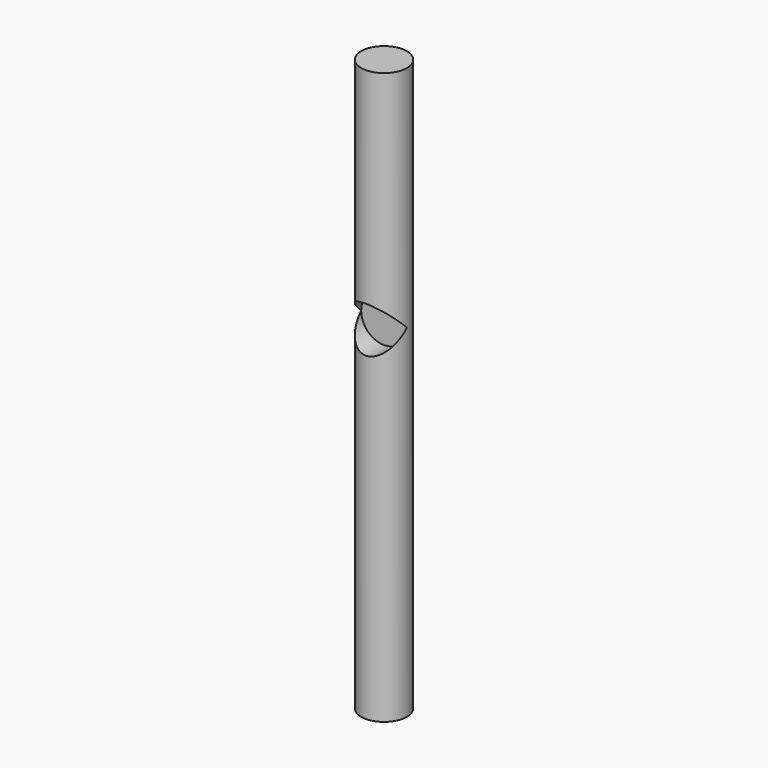
from build123d import *

# Parameters (mm, degrees)
F0_R     = 10
F1_DEPTH = 250
F2_R     = 10
F3_DEPTH = 10


with BuildPart() as f1:
    # F0 (on Top) → F1 (new body)
    with BuildSketch(Plane.XY):
        Circle(F0_R)
    extrude(amount=F1_DEPTH)

    # F2 (on Front) → F3 (cut)
    with BuildSketch(Plane.XZ):
        with Locations((0, 150)):
            Circle(F2_R)
    extrude(amount=F3_DEPTH, mode=Mode.SUBTRACT)


solid = f1.part
